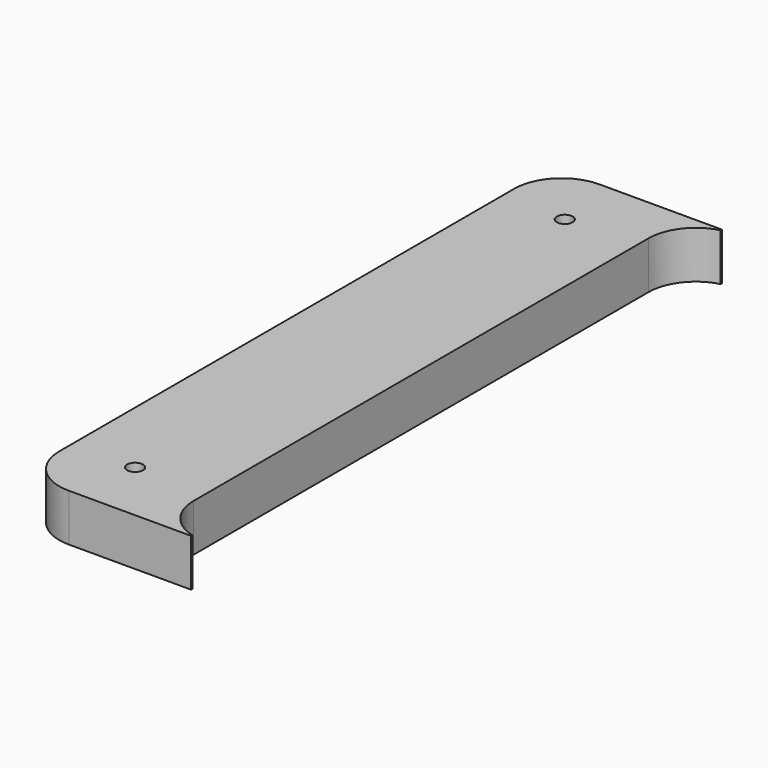
from build123d import *

# Parameters (mm, degrees)
F1_DEPTH = 3
F3_D     = 1


with BuildPart() as f1:
    # F0 (on Top) → F1 (new body)
    with BuildSketch(Plane.XY):
        with BuildLine():
            Line((3, 0), (10, 0))
            Line((10, 0), (10.75, 0))
            Line((10.75, 0), (10.75, 0.095262))
            ThreePointArc((10.75, 0.095262), (9.128292, 1.162883), (8.5, 3))
            Line((8.5, 3), (8.5, 39))
            ThreePointArc((8.5, 39), (9.128292, 40.837117), (10.75, 41.904738))
            Line((10.75, 41.904738), (10.75, 42))
            Line((10.75, 42), (10, 42))
            Line((10, 42), (3, 42))
            ThreePointArc((3, 42), (0.87868, 41.12132), (0, 39))
            Line((0, 39), (0, 3))
            ThreePointArc((0, 3), (0.87868, 0.87868), (3, 0))
        make_face()
    extrude(amount=F1_DEPTH)

    # F3 (through all)
    with Locations(Plane.XY.offset(3)):
        with Locations((4, 38), (4, 4)):
            Hole(F3_D / 2)


solid = f1.part
